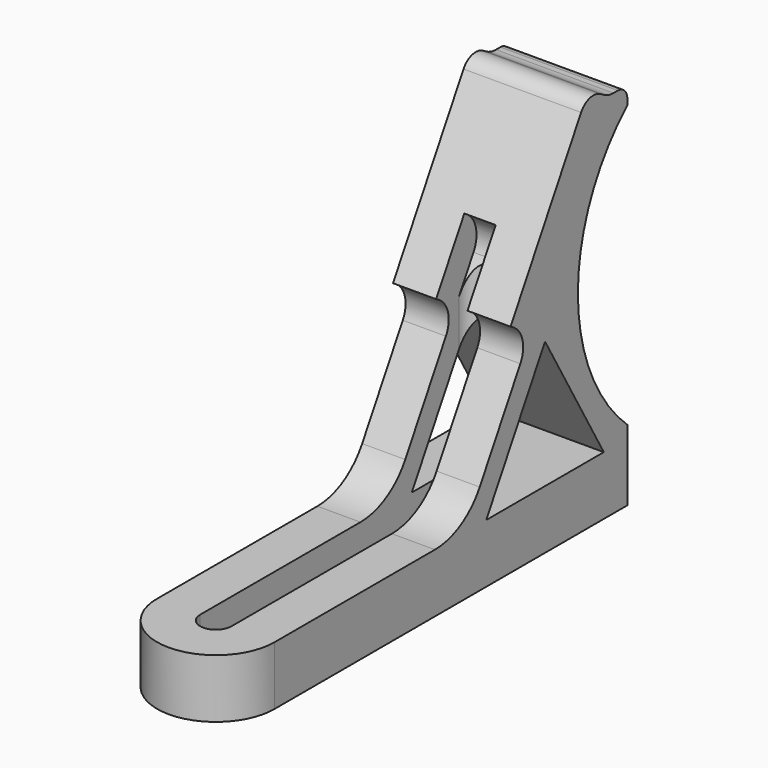
from build123d import *

# Parameters (mm, degrees)
PAD_DEPTH       = 67.31
POCKET_DEPTH    = 20.001
POCKET001_DEPTH = 62.936332
FILLET_R        = 11
PAD001_DEPTH    = 5
FILLET001_R     = 4.5
FILLET002_R     = 4.75
FILLET003_R     = 3
FILLET004_R     = 4
FILLET005_R     = 2


with BuildPart() as part:
    # Sketch → Pad (new body)
    with BuildSketch(Plane.XY):
        with BuildLine():
            Line((-10, 75), (-10, 0))
            ThreePointArc((-10, 0), (0, -10), (10, 0))
            Line((10, 0), (10, 75))
            Line((10, 75), (-10, 75))
        make_face()
    extrude(amount=PAD_DEPTH)

    # Sketch001 (on Face1 of Pad) → Pocket (cut, through all)
    with BuildSketch(Plane(origin=(-10, 0, 0), x_dir=(0, -1, 0), z_dir=(-1, 0, 0))):
        Polygon((-71, 62.935332), (-40.437772, 10), (26.946924, 10), (26.946924, 74.479118), (-81.836647, 74.479118), (-81.836647, 62.935332), align=None)
        with BuildLine():
            ThreePointArc((-75, 12.064668), (-64.49, 36), (-75, 59.935332))
            Line((-75, 59.935332), (-97, 36))
            Line((-97, 36), (-75, 12.064668))
        make_face()
        Polygon((-70, 10), (-45, 10), (-57.5, 31.650635), align=None)
    extrude(amount=-POCKET_DEPTH, mode=Mode.SUBTRACT)

    # Sketch002 (on Face2 of Pocket) → Pocket001 (cut, through all)
    with BuildSketch(Plane(origin=(0, 0, 0), x_dir=(1, 0, 0), z_dir=(0, 0, -1))):
        with BuildLine():
            ThreePointArc((2.667, 0), (0, 2.667), (-2.667, 0))
            Line((-2.667, 0), (-2.667, -55))
            ThreePointArc((-2.667, -55), (0, -57.667), (2.667, -55))
            Line((2.667, 0), (2.667, -55))
        make_face()
    extrude(amount=-POCKET001_DEPTH, mode=Mode.SUBTRACT)

    # Fillet
    fillet_edges = [part.edges().sort_by_distance(p)[0] for p in [
        (6.3335, 40.437772, 10),
        (-6.3335, 40.437772, 10),
    ]]
    fillet(fillet_edges, radius=FILLET_R)

    # Sketch003 (on Face5 of Fillet) → Pad001 (join)
    with BuildSketch(Plane(origin=(0, 25.998202, -15.010069), x_dir=(1, 0, 0), z_dir=(0, -0.866025, 0.5))):
        Polygon((-10, 90.003596), (10, 90.003596), (10, 57.003596), (2.667, 57.003596), (2.667, 69.003596), (-2.667, 69.003596), (-2.667, 57.003596), (-10, 57.003596), align=None)
    extrude(amount=PAD001_DEPTH)

    # Fillet001
    fillet001_edges = [part.edges().sort_by_distance(p)[0] for p in [
        (6.3335, 54.5, 34.356493),
        (-6.3335, 54.5, 34.356493),
    ]]
    fillet(fillet001_edges, radius=FILLET001_R)

    # Fillet002
    fillet002_edges = [part.edges().sort_by_distance(p)[0] for p in [
        (0, 60.5, 44.748798),
    ]]
    fillet(fillet002_edges, radius=FILLET002_R)

    # Fillet003
    fillet003_edges = [part.edges().sort_by_distance(p)[0] for p in [
        (0, 66.669873, 65.435332),
    ]]
    fillet(fillet003_edges, radius=FILLET003_R)

    # Fillet004
    fillet004_edges = [part.edges().sort_by_distance(p)[0] for p in [
        (0, 71, 62.935332),
    ]]
    fillet(fillet004_edges, radius=FILLET004_R)

    # Fillet005
    fillet005_edges = [part.edges().sort_by_distance(p)[0] for p in [
        (0, 75, 62.935332),
    ]]
    fillet(fillet005_edges, radius=FILLET005_R)


solid = part.part
